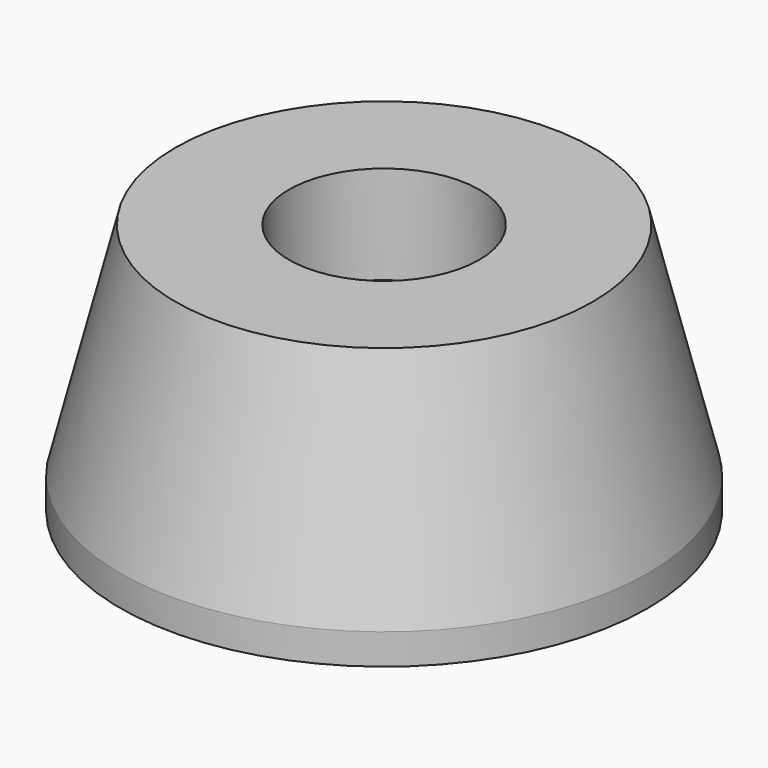
from build123d import *

# Parameters (mm, degrees)
SKETCH_R      = 21.5
SKETCH_R_2    = 3.35
PAD_DEPTH     = 20.5
CHAMFER_SIZE2 = 4.5
CHAMFER_SIZE  = 18
SKETCH001_R   = 7.75
POCKET_DEPTH  = 8


with BuildPart() as part:
    # Sketch → Pad (new body)
    with BuildSketch(Plane.XY):
        Circle(SKETCH_R)
        Circle(SKETCH_R_2, mode=Mode.SUBTRACT)
    extrude(amount=PAD_DEPTH)

    # Chamfer
    chamfer_edges = [part.edges().sort_by_distance(p)[0] for p in [
        (-21.5, 0, 20.5),
    ]]
    chamfer_side = part.faces().sort_by_distance((-21.5, 0, 10.25))[0]
    chamfer(chamfer_edges, length=CHAMFER_SIZE, length2=CHAMFER_SIZE2, reference=chamfer_side)

    # Sketch001 (on Face4 of Chamfer) → Pocket (cut)
    with BuildSketch(Plane.XY.offset(20.5)):
        Circle(SKETCH001_R)
    extrude(amount=-POCKET_DEPTH, mode=Mode.SUBTRACT)


solid = part.part
